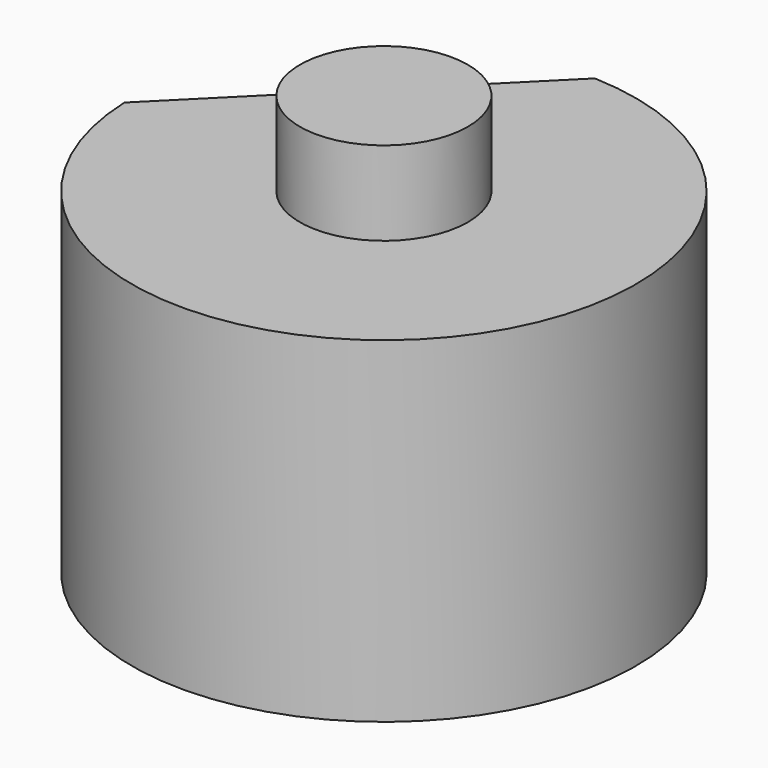
from build123d import *

# Parameters (mm, degrees)
F0_R     = 9.525
F1_DEPTH = 12.7
F2_R     = 3.175
F3_DEPTH = 3.175
F4_R     = 3.175
F5_DEPTH = 3.175
F7_DEPTH = 25.4
F8_R     = 3.175
F9_DEPTH = 12.7


with BuildPart() as f1:
    # F0 (on Top) → F1 (new body)
    with BuildSketch(Plane.XY):
        Circle(F0_R)
    extrude(amount=F1_DEPTH)

    # F2 (on face) → F3 (join)
    with BuildSketch(Plane(origin=(0, 0, 0), x_dir=(1, 0, 0), z_dir=(0, 0, -1))):
        Circle(F2_R)
    extrude(amount=F3_DEPTH)

    # F4 (on face) → F5 (join)
    with BuildSketch(Plane.XY.offset(12.7)):
        Circle(F4_R)
    extrude(amount=F5_DEPTH)

    # F6 (on face) → F7 (cut)
    with BuildSketch(Plane(origin=(0, 0, 0), x_dir=(1, 0, 0), z_dir=(0, 0, -1))):
        with BuildLine():
            Line((0.360091, -9.518191), (0, -9.1581))
            Line((0, -9.1581), (0, -9.525))
            ThreePointArc((0, -9.525), (0.180078, -9.523298), (0.360091, -9.518191))
        make_face()
        with BuildLine():
            Line((0, -9.525), (0, -9.1581))
            Line((0, -9.1581), (-4.57905, -4.57905))
            Line((-4.57905, -4.57905), (-9.1581, 0))
            Line((-9.1581, 0), (-9.525, 0))
            ThreePointArc((-9.525, 0), (-6.735192, -6.735192), (0, -9.525))
        make_face()
        with BuildLine():
            Line((-9.525, 0), (-9.1581, 0))
            Line((-9.1581, 0), (-9.518191, 0.360091))
            ThreePointArc((-9.518191, 0.360091), (-9.523298, 0.180078), (-9.525, 0))
        make_face()
    extrude(amount=-F7_DEPTH, mode=Mode.SUBTRACT)

    # F8 (on face) → F9 (cut)
    with BuildSketch(Plane(origin=(-4.57905, 4.57905, 0), x_dir=(-0.707107, -0.707107, 0), z_dir=(-0.707107, 0.707107, 0))):
        with Locations((0, 6.35)):
            Circle(F8_R)
    extrude(amount=-F9_DEPTH, mode=Mode.SUBTRACT)


solid = f1.part
